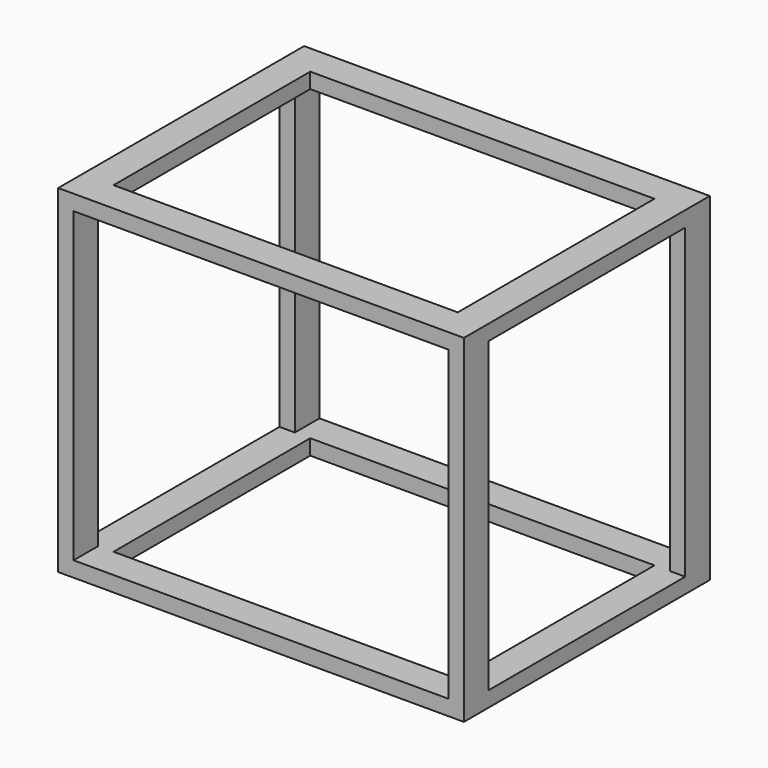
from build123d import *

# Parameters (mm, degrees)
F1_W      = 660
F1_H      = 500
F1_W_2    = 560
F1_H_2    = 400
F2_DEPTH  = 25
F4_W      = 660
F4_H      = 500
F4_W_2    = 560
F4_H_2    = 400
F5_DEPTH  = 25
F8_W      = 660
F8_H      = 550
F8_W_2    = 610
F8_H_2    = 500
F9_DEPTH  = 50
F10_W     = 660
F10_H     = 550
F10_W_2   = 610
F10_H_2   = 500
F11_DEPTH = 50


with BuildPart() as f2:
    # F1 (on offset) → F2 (new body)
    with BuildSketch(Plane.XY.offset(275)):
        Rectangle(F1_W, F1_H)
        Rectangle(F1_W_2, F1_H_2, mode=Mode.SUBTRACT)
    extrude(amount=-F2_DEPTH)



with BuildPart() as f5:
    # F4 (on offset) → F5 (new body)
    with BuildSketch(Plane.XY.offset(-275)):
        Rectangle(F4_W, F4_H)
        Rectangle(F4_W_2, F4_H_2, mode=Mode.SUBTRACT)
    extrude(amount=F5_DEPTH)


with BuildPart() as f2_1:
    add(f2.part)

    add(f5.part)  # F9 merges F5
    # F8 (on offset) → F9 (join)
    with BuildSketch(Plane.XZ.offset(250)):
        Rectangle(F8_W, F8_H)
        Rectangle(F8_W_2, F8_H_2, mode=Mode.SUBTRACT)
    extrude(amount=-F9_DEPTH)

    # F10 (on offset) → F11 (join)
    with BuildSketch(Plane.XZ.offset(-250)):
        Rectangle(F10_W, F10_H)
        Rectangle(F10_W_2, F10_H_2, mode=Mode.SUBTRACT)
    extrude(amount=F11_DEPTH)


solid = f2_1.part
